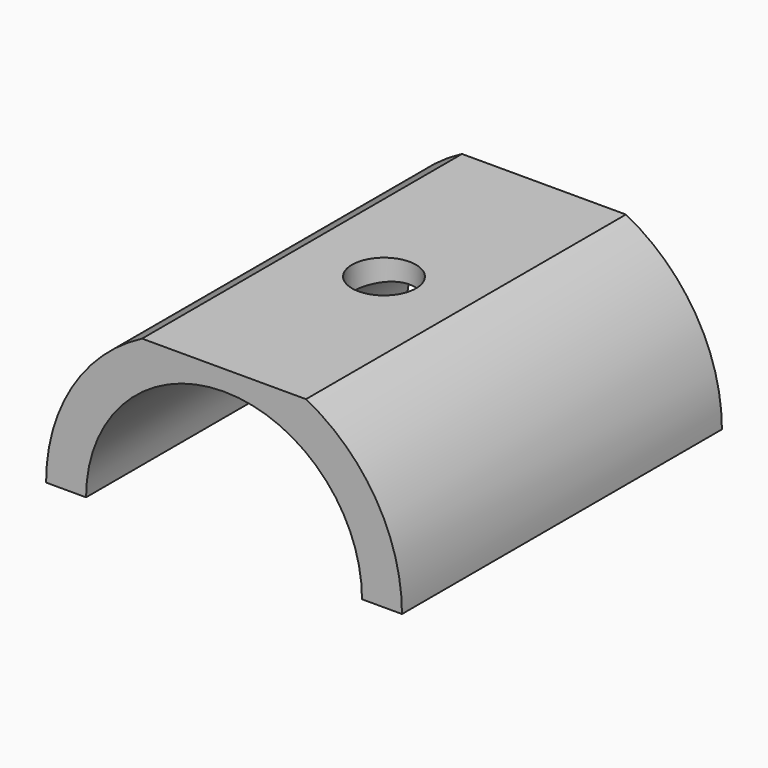
from build123d import *

# Parameters (mm, degrees)
F1_DEPTH = 100
F3_D     = 16


with BuildPart() as f1:
    # F0 (on Front) → F1 (new body)
    with BuildSketch(Plane.XZ):
        with BuildLine():
            Line((34.5, 0), (44.5, 0))
            ThreePointArc((44.5, 0), (38.02781, 23.111376), (20.493902, 39.5))
            Line((20.493902, 39.5), (-20.493902, 39.5))
            ThreePointArc((-20.493902, 39.5), (-38.02781, 23.111376), (-44.5, 0))
            Line((-44.5, 0), (-34.5, 0))
            ThreePointArc((-34.5, 0), (0, 34.5), (34.5, 0))
        make_face()
    extrude(amount=F1_DEPTH)

    # F3 (through all)
    with Locations(Plane.XY.offset(39.5)):
        with Locations((0, -50)):
            Hole(F3_D / 2)


solid = f1.part
